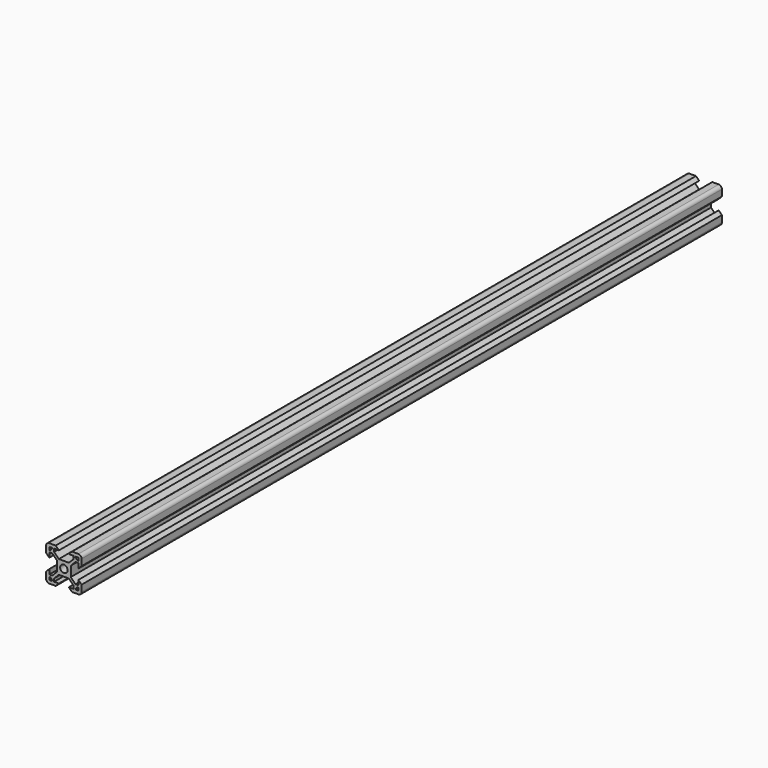
from build123d import *

# Parameters (mm, degrees)
F0_R     = 2.1
F1_DEPTH = 450


with BuildPart() as f1:
    # F0 (on Front) → F1 (new body)
    with BuildSketch(Plane.XZ):
        with BuildLine():
            Line((4.50066, 1.8), (4.50066, 3.44))
            Line((4.50066, 3.44), (7.16, 6.09934))
            Line((7.16, 6.09934), (12.84, 6.09934))
            Line((12.84, 6.09934), (15.49934, 3.44))
            Line((15.49934, 3.44), (15.49934, 1.8))
            Line((15.49934, 1.8), (12.795146, 1.8))
            Line((12.795146, 1.8), (14.595146, 0))
            Line((14.595146, 0), (18.2, 0))
            ThreePointArc((18.2, 0), (19.472792, 0.527208), (20, 1.8))
            Line((20, 1.8), (20, 5.404854))
            Line((20, 5.404854), (18.2, 7.204854))
            Line((18.2, 7.204854), (18.2, 4.50066))
            Line((18.2, 4.50066), (16.56, 4.50066))
            Line((16.56, 4.50066), (13.90066, 7.16))
            Line((13.90066, 7.16), (13.90066, 12.84))
            Line((13.90066, 12.84), (16.56, 15.49934))
            Line((16.56, 15.49934), (18.2, 15.49934))
            Line((18.2, 15.49934), (18.2, 12.795146))
            Line((18.2, 12.795146), (20, 14.595146))
            Line((20, 14.595146), (20, 18.2))
            ThreePointArc((20, 18.2), (19.472792, 19.472792), (18.2, 20))
            Line((18.2, 20), (14.595146, 20))
            Line((14.595146, 20), (12.795146, 18.2))
            Line((12.795146, 18.2), (15.49934, 18.2))
            Line((15.49934, 18.2), (15.49934, 16.56))
            Line((15.49934, 16.56), (12.84, 13.90066))
            Line((12.84, 13.90066), (7.16, 13.90066))
            Line((7.16, 13.90066), (4.50066, 16.56))
            Line((4.50066, 16.56), (4.50066, 18.2))
            Line((4.50066, 18.2), (7.204854, 18.2))
            Line((7.204854, 18.2), (5.404854, 20))
            Line((5.404854, 20), (1.8, 20))
            ThreePointArc((1.8, 20), (0.527208, 19.472792), (0, 18.2))
            Line((0, 18.2), (0, 14.595146))
            Line((0, 14.595146), (1.8, 12.795146))
            Line((1.8, 12.795146), (1.8, 15.49934))
            Line((1.8, 15.49934), (3.44, 15.49934))
            Line((3.44, 15.49934), (6.09934, 12.84))
            Line((6.09934, 12.84), (6.09934, 7.16))
            Line((6.09934, 7.16), (3.44, 4.50066))
            Line((3.44, 4.50066), (1.8, 4.50066))
            Line((1.8, 4.50066), (1.8, 7.204854))
            Line((1.8, 7.204854), (0, 5.404854))
            Line((0, 5.404854), (0, 1.8))
            ThreePointArc((0, 1.8), (0.527208, 0.527208), (1.8, 0))
            Line((1.8, 0), (5.404854, 0))
            Line((5.404854, 0), (7.204854, 1.8))
            Line((7.204854, 1.8), (4.50066, 1.8))
        make_face()
        Polygon((2.288858, 3.44), (3.349518, 2.37934), (3.349518, 1.8), (1.8, 1.8), (1.8, 3.44), align=None, mode=Mode.SUBTRACT)
        Polygon((18.2, 3.44), (18.2, 1.8), (16.650482, 1.8), (16.650482, 2.37934), (17.711142, 3.44), align=None, mode=Mode.SUBTRACT)
        with Locations((10, 10)):
            Circle(F0_R, mode=Mode.SUBTRACT)
        Polygon((1.8, 16.56), (1.8, 18.2), (3.349518, 18.2), (3.349518, 17.62066), (2.288858, 16.56), align=None, mode=Mode.SUBTRACT)
        Polygon((17.711142, 16.56), (16.650482, 17.62066), (16.650482, 18.2), (18.2, 18.2), (18.2, 16.56), align=None, mode=Mode.SUBTRACT)
    extrude(amount=-F1_DEPTH)


solid = f1.part
